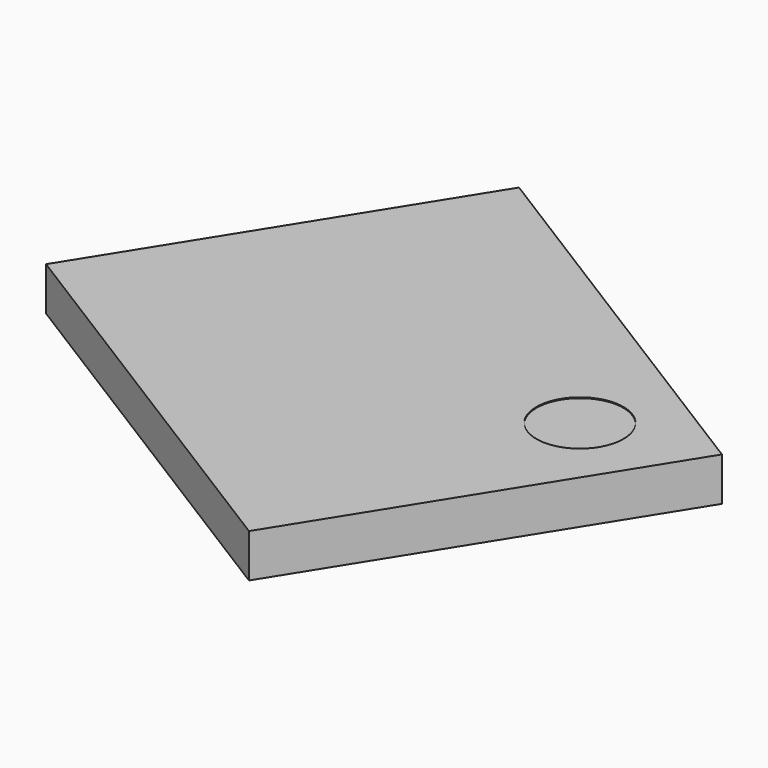
from build123d import *

# Parameters (mm, degrees)
CYLINDER080_R          = 0.5
CYLINDER080_DEPTH      = 0.01
BOX171_W               = 4.5
BOX171_H               = 5.5
BOX171_DEPTH           = 0.5
CUT083_PLACEMENT_ANGLE = 122


with BuildPart() as cylinder080:
    # Cylinder080 → Cylinder080 (new body)
    with BuildSketch(Plane(origin=(1, 4.5, 0.49), x_dir=(1, 0, 0), z_dir=(0, 0, 1))):
        Circle(CYLINDER080_R)
    extrude(amount=CYLINDER080_DEPTH)


with BuildPart() as obj1:
    # Box171 → Box171 (new body)
    with BuildSketch(Plane.XY):
        with Locations((2.25, 2.75)):
            Rectangle(BOX171_W, BOX171_H)
    extrude(amount=BOX171_DEPTH)

    # Cut083: cut Cylinder080
    add(cylinder080.part, mode=Mode.SUBTRACT)


with BuildPart() as obj1_1:
    # Cut083 placement: moved
    add(obj1.part.moved(Location((-9.677147, 22.819562, 1.64))).rotate(Axis((-9.677147, 22.819562, 1.64), (0, 0, -1)), CUT083_PLACEMENT_ANGLE))


solid = obj1_1.part
